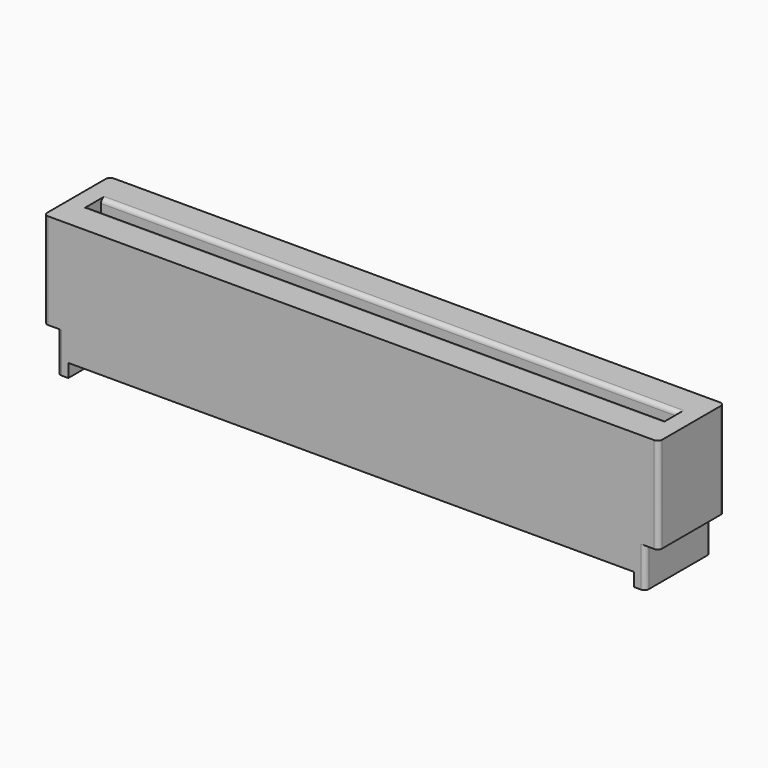
from build123d import *

# Parameters (mm, degrees)
BOX_W        = 70.104
BOX_H        = 9.3472
BOX_DEPTH    = 15.494
BOX001_W     = 66.04
BOX001_H     = 1.8669
BOX001_DEPTH = 7.493
BOX002_W     = 1.524
BOX002_H     = 9.3472
BOX002_DEPTH = 4.572
BOX003_W     = 1.524
BOX003_H     = 9.3472
BOX003_DEPTH = 4.572
FILLET_R     = 0.5
FILLET001_R  = 0.5
FILLET002_R  = 0.5
FILLET003_R  = 0.5
FILLET004_R  = 0.5
FILLET005_R  = 0.5
FILLET006_R  = 0.5
FILLET007_R  = 0.5
FILLET008_R  = 0.5
FILLET009_R  = 0.5
BOX004_W     = 64.516
BOX004_H     = 9.3472
BOX004_DEPTH = 1.524
BOX005_W     = 1.016
BOX005_H     = 0.762
BOX005_DEPTH = 13
BOX006_W     = 1.016
BOX006_H     = 0.762
BOX006_DEPTH = 9


with BuildPart() as part:
    # Box → Box (join)
    with BuildSketch(Plane(origin=(-35.052, -4.6736, 0), x_dir=(1, 0, 0), z_dir=(0, 0, 1))):
        with Locations((35.052, 4.6736)):
            Rectangle(BOX_W, BOX_H)
    extrude(amount=BOX_DEPTH)

    # Box001 → Box001 (cut)
    with BuildSketch(Plane(origin=(-33.02, -0.93345, 8.01), x_dir=(1, 0, 0), z_dir=(0, 0, 1))):
        with Locations((33.02, 0.93345)):
            Rectangle(BOX001_W, BOX001_H)
    extrude(amount=BOX001_DEPTH, mode=Mode.SUBTRACT)

    # Box002 → Box002 (cut)
    with BuildSketch(Plane(origin=(-35.052, -4.6736, 0), x_dir=(1, 0, 0), z_dir=(0, 0, 1))):
        with Locations((0.762, 4.6736)):
            Rectangle(BOX002_W, BOX002_H)
    extrude(amount=BOX002_DEPTH, mode=Mode.SUBTRACT)

    # Box003 → Box003 (cut)
    with BuildSketch(Plane(origin=(33.53, -4.6736, 0), x_dir=(1, 0, 0), z_dir=(0, 0, 1))):
        with Locations((0.762, 4.6736)):
            Rectangle(BOX003_W, BOX003_H)
    extrude(amount=BOX003_DEPTH, mode=Mode.SUBTRACT)

    # Fillet
    fillet_edges = [part.edges().sort_by_distance(p)[0] for p in [
        (-35.052, -4.6736, 10.033),
    ]]
    fillet(fillet_edges, radius=FILLET_R)

    # Fillet001
    fillet001_edges = [part.edges().sort_by_distance(p)[0] for p in [
        (-35.052, 4.6736, 10.033),
    ]]
    fillet(fillet001_edges, radius=FILLET001_R)

    # Fillet002
    fillet002_edges = [part.edges().sort_by_distance(p)[0] for p in [
        (-33.528, -4.6736, 2.286),
    ]]
    fillet(fillet002_edges, radius=FILLET002_R)

    # Fillet003
    fillet003_edges = [part.edges().sort_by_distance(p)[0] for p in [
        (-33.528, 4.6736, 2.286),
    ]]
    fillet(fillet003_edges, radius=FILLET003_R)

    # Fillet004
    fillet004_edges = [part.edges().sort_by_distance(p)[0] for p in [
        (33.53, -4.6736, 2.286),
    ]]
    fillet(fillet004_edges, radius=FILLET004_R)

    # Fillet005
    fillet005_edges = [part.edges().sort_by_distance(p)[0] for p in [
        (35.052, -4.6736, 10.033),
    ]]
    fillet(fillet005_edges, radius=FILLET005_R)

    # Fillet006
    fillet006_edges = [part.edges().sort_by_distance(p)[0] for p in [
        (33.53, 4.6736, 2.286),
    ]]
    fillet(fillet006_edges, radius=FILLET006_R)

    # Fillet007
    fillet007_edges = [part.edges().sort_by_distance(p)[0] for p in [
        (35.052, 4.6736, 10.033),
    ]]
    fillet(fillet007_edges, radius=FILLET007_R)

    # Fillet008
    fillet008_edges = [part.edges().sort_by_distance(p)[0] for p in [
        (0, -0.93345, 15.494),
    ]]
    fillet(fillet008_edges, radius=FILLET008_R)

    # Fillet009
    fillet009_edges = [part.edges().sort_by_distance(p)[0] for p in [
        (0, 0.93345, 15.494),
    ]]
    fillet(fillet009_edges, radius=FILLET009_R)

    # Box004 → Box004 (cut)
    with BuildSketch(Plane(origin=(-32.258, -4.6736, 0), x_dir=(1, 0, 0), z_dir=(0, 0, 1))):
        with Locations((32.258, 4.6736)):
            Rectangle(BOX004_W, BOX004_H)
    extrude(amount=BOX004_DEPTH, mode=Mode.SUBTRACT)

    # Box005 → Box005 (cut)
    with BuildSketch(Plane(origin=(-0.508, -2.9337, 0), x_dir=(1, 0, 0), z_dir=(0, 0, 1))):
        with Locations((0.508, 0.381)):
            Rectangle(BOX005_W, BOX005_H)
    extrude(amount=BOX005_DEPTH, mode=Mode.SUBTRACT)

    # Box006 → Box006 (cut)
    with BuildSketch(Plane(origin=(-0.508, 2.1717, 0), x_dir=(1, 0, 0), z_dir=(0, 0, 1))):
        with Locations((0.508, 0.381)):
            Rectangle(BOX006_W, BOX006_H)
    extrude(amount=BOX006_DEPTH, mode=Mode.SUBTRACT)


solid = part.part
